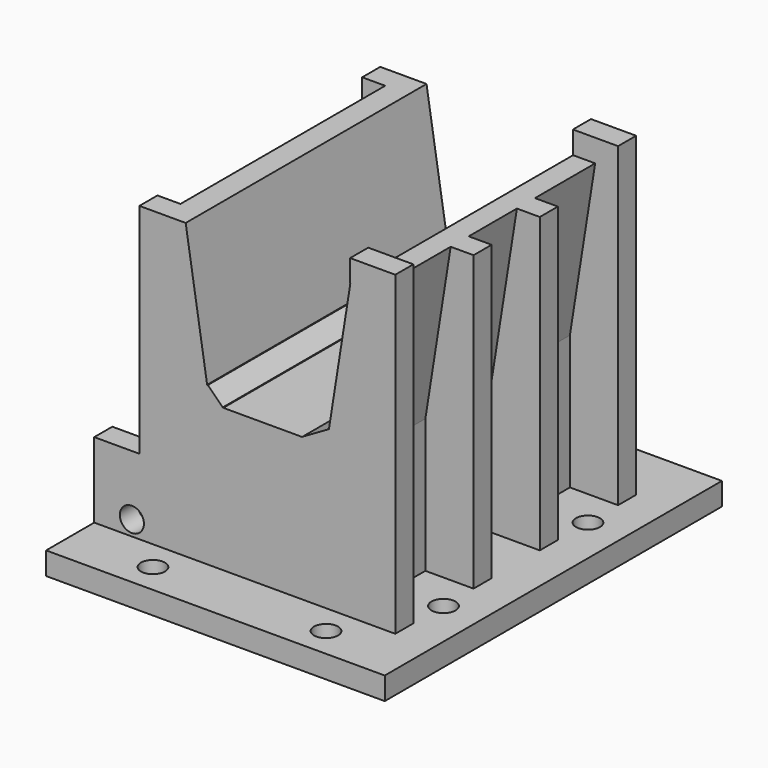
from build123d import *

# Parameters (mm, degrees)
CYLINDER007_R          = 1.6
CYLINDER007_DEPTH      = 10
CYLINDER006_R          = 1.6
CYLINDER006_DEPTH      = 10
CYLINDER005_R          = 1.6
CYLINDER005_DEPTH      = 10
CYLINDER004_R          = 1.6
CYLINDER004_DEPTH      = 10
CYLINDER_R             = 1.6
CYLINDER_DEPTH         = 50
CYLINDER_ROLL_ANGLE    = 90
BOX024_W               = 6
BOX024_H               = 3
BOX024_DEPTH           = 10
BOX023_W               = 6
BOX023_H               = 3
BOX023_DEPTH           = 10
BOX021_W               = 6
BOX021_H               = 3
BOX021_DEPTH           = 3
BOX022_W               = 13
BOX022_H               = 34
BOX022_DEPTH           = 3
CYLINDER003_R          = 1.6
CYLINDER003_DEPTH      = 10
CYLINDER002_R          = 1.6
CYLINDER002_DEPTH      = 10
BOX019_W               = 45
BOX019_H               = 56
BOX019_DEPTH           = 3
BOX018_W               = 10
BOX018_H               = 10
BOX018_DEPTH           = 23
BOX018_PITCH_ANGLE     = 9
BOX013_W               = 8.6
BOX013_H               = 10
BOX013_DEPTH           = 17.8
BOX017_W               = 10
BOX017_H               = 8
BOX017_DEPTH           = 23
BOX017_PITCH_ANGLE     = 9
BOX012_W               = 8.6
BOX012_H               = 8
BOX012_DEPTH           = 17.8
BOX016_W               = 10
BOX016_H               = 10
BOX016_DEPTH           = 23
BOX016_PITCH_ANGLE     = 9
BOX011_W               = 8.6
BOX011_H               = 10
BOX011_DEPTH           = 17.8
BOX008_W               = 10
BOX008_H               = 34
BOX008_DEPTH           = 23
BOX008_PITCH_ANGLE     = -9
BOX007_W               = 8.6
BOX007_H               = 34
BOX007_DEPTH           = 17.8
BOX006_W               = 4
BOX006_H               = 40
BOX006_DEPTH           = 3
BOX006_PLACEMENT_ANGLE = 30
BOX004_W               = 10
BOX004_H               = 40
BOX004_DEPTH           = 19
BOX004_PITCH_ANGLE     = 9
BOX005_W               = 2.8
BOX005_H               = 40
BOX005_DEPTH           = 2.8
BOX005_PITCH_ANGLE     = 45
BOX003_W               = 7
BOX003_H               = 40
BOX003_DEPTH           = 19
BOX003_PITCH_ANGLE     = -9
BOX001_W               = 10.5
BOX001_H               = 40
BOX001_DEPTH           = 20
BOX_W                  = 34
BOX_H                  = 40
BOX_DEPTH              = 42
BOX020_W               = 6
BOX020_H               = 3
BOX020_DEPTH           = 3


with BuildPart() as cylinder007:
    # Cylinder007 → Cylinder007 (new body)
    with BuildSketch(Plane(origin=(28, 44, 0), x_dir=(1, 0, 0), z_dir=(0, 0, 1))):
        Circle(CYLINDER007_R)
    extrude(amount=CYLINDER007_DEPTH)


with BuildPart() as cylinder006:
    # Cylinder006 → Cylinder006 (new body)
    with BuildSketch(Plane(origin=(5, 44, 0), x_dir=(1, 0, 0), z_dir=(0, 0, 1))):
        Circle(CYLINDER006_R)
    extrude(amount=CYLINDER006_DEPTH)


with BuildPart() as cylinder005:
    # Cylinder005 → Cylinder005 (new body)
    with BuildSketch(Plane(origin=(28, -4, 0), x_dir=(1, 0, 0), z_dir=(0, 0, 1))):
        Circle(CYLINDER005_R)
    extrude(amount=CYLINDER005_DEPTH)


with BuildPart() as cylinder004:
    # Cylinder004 → Cylinder004 (new body)
    with BuildSketch(Plane(origin=(5, -4, 0), x_dir=(1, 0, 0), z_dir=(0, 0, 1))):
        Circle(CYLINDER004_R)
    extrude(amount=CYLINDER004_DEPTH)


with BuildPart() as cylinder:
    # Cylinder → Cylinder (new body)
    with BuildSketch(Plane.XY):
        Circle(CYLINDER_R)
    extrude(amount=CYLINDER_DEPTH)


with BuildPart() as cylinder_1:
    # Cylinder roll: moved
    add(cylinder.part.rotate(Axis((0, 0, 0), (1, 0, 0)), CYLINDER_ROLL_ANGLE))


with BuildPart() as cylinder_2:
    # Cylinder placement: moved
    add(cylinder_1.part.moved(Location((-1, 45, 5))))


with BuildPart() as cube024:
    # Box024 → Box024 (new body)
    with BuildSketch(Plane(origin=(-6, 37, 3), x_dir=(1, 0, 0), z_dir=(0, 0, 1))):
        with Locations((3, 1.5)):
            Rectangle(BOX024_W, BOX024_H)
    extrude(amount=BOX024_DEPTH)


with BuildPart() as cube023:
    # Box023 → Box023 (new body)
    with BuildSketch(Plane(origin=(-6, 0, 3), x_dir=(1, 0, 0), z_dir=(0, 0, 1))):
        with Locations((3, 1.5)):
            Rectangle(BOX023_W, BOX023_H)
    extrude(amount=BOX023_DEPTH)


with BuildPart() as cube021:
    # Box021 → Box021 (new body)
    with BuildSketch(Plane(origin=(28, 37, 42), x_dir=(1, 0, 0), z_dir=(0, 0, 1))):
        with Locations((3, 1.5)):
            Rectangle(BOX021_W, BOX021_H)
    extrude(amount=BOX021_DEPTH)


with BuildPart() as cube022:
    # Box022 → Box022 (new body)
    with BuildSketch(Plane(origin=(-6.6, 3, 0), x_dir=(1, 0, 0), z_dir=(0, 0, 1))):
        with Locations((6.5, 17)):
            Rectangle(BOX022_W, BOX022_H)
    extrude(amount=BOX022_DEPTH)


with BuildPart() as cylinder003:
    # Cylinder003 → Cylinder003 (new body)
    with BuildSketch(Plane(origin=(34, 32, 0), x_dir=(1, 0, 0), z_dir=(0, 0, 1))):
        Circle(CYLINDER003_R)
    extrude(amount=CYLINDER003_DEPTH)


with BuildPart() as cylinder002:
    # Cylinder002 → Cylinder002 (new body)
    with BuildSketch(Plane(origin=(34, 8, 0), x_dir=(1, 0, 0), z_dir=(0, 0, 1))):
        Circle(CYLINDER002_R)
    extrude(amount=CYLINDER002_DEPTH)


with BuildPart() as cube019:
    # Box019 → Box019 (new body)
    with BuildSketch(Plane(origin=(-6, -8, 0), x_dir=(1, 0, 0), z_dir=(0, 0, 1))):
        with Locations((22.5, 28)):
            Rectangle(BOX019_W, BOX019_H)
    extrude(amount=BOX019_DEPTH)


with BuildPart() as cube018:
    # Box018 → Box018 (new body)
    with BuildSketch(Plane.XY):
        with Locations((5, 5)):
            Rectangle(BOX018_W, BOX018_H)
    extrude(amount=BOX018_DEPTH)


with BuildPart() as cube018_1:
    # Box018 pitch: moved
    add(cube018.part.rotate(Axis((0, 0, 0), (0, 1, 0)), BOX018_PITCH_ANGLE))


with BuildPart() as cube018_2:
    # Box018 placement: moved
    add(cube018_1.part.moved(Location((27.6, 3, 20.8))))


with BuildPart() as cube013:
    # Box013 → Box013 (new body)
    with BuildSketch(Plane(origin=(27.6, 3, 3), x_dir=(1, 0, 0), z_dir=(0, 0, 1))):
        with Locations((4.3, 5)):
            Rectangle(BOX013_W, BOX013_H)
    extrude(amount=BOX013_DEPTH)


with BuildPart() as cube017:
    # Box017 → Box017 (new body)
    with BuildSketch(Plane.XY):
        with Locations((5, 4)):
            Rectangle(BOX017_W, BOX017_H)
    extrude(amount=BOX017_DEPTH)


with BuildPart() as cube017_1:
    # Box017 pitch: moved
    add(cube017.part.rotate(Axis((0, 0, 0), (0, 1, 0)), BOX017_PITCH_ANGLE))


with BuildPart() as cube017_2:
    # Box017 placement: moved
    add(cube017_1.part.moved(Location((27.6, 16, 20.8))))


with BuildPart() as cube012:
    # Box012 → Box012 (new body)
    with BuildSketch(Plane(origin=(27.6, 16, 3), x_dir=(1, 0, 0), z_dir=(0, 0, 1))):
        with Locations((4.3, 4)):
            Rectangle(BOX012_W, BOX012_H)
    extrude(amount=BOX012_DEPTH)


with BuildPart() as cube016:
    # Box016 → Box016 (new body)
    with BuildSketch(Plane.XY):
        with Locations((5, 5)):
            Rectangle(BOX016_W, BOX016_H)
    extrude(amount=BOX016_DEPTH)


with BuildPart() as cube016_1:
    # Box016 pitch: moved
    add(cube016.part.rotate(Axis((0, 0, 0), (0, 1, 0)), BOX016_PITCH_ANGLE))


with BuildPart() as cube016_2:
    # Box016 placement: moved
    add(cube016_1.part.moved(Location((27.6, 27, 20.8))))


with BuildPart() as cube011:
    # Box011 → Box011 (new body)
    with BuildSketch(Plane(origin=(27.6, 27, 3), x_dir=(1, 0, 0), z_dir=(0, 0, 1))):
        with Locations((4.3, 5)):
            Rectangle(BOX011_W, BOX011_H)
    extrude(amount=BOX011_DEPTH)


with BuildPart() as cube008:
    # Box008 → Box008 (new body)
    with BuildSketch(Plane.XY):
        with Locations((5, 17)):
            Rectangle(BOX008_W, BOX008_H)
    extrude(amount=BOX008_DEPTH)


with BuildPart() as cube008_1:
    # Box008 pitch: moved
    add(cube008.part.rotate(Axis((0, 0, 0), (0, 1, 0)), BOX008_PITCH_ANGLE))


with BuildPart() as cube008_2:
    # Box008 placement: moved
    add(cube008_1.part.moved(Location((-3.3, 3, 18.2))))


with BuildPart() as cube007:
    # Box007 → Box007 (new body)
    with BuildSketch(Plane(origin=(-2.19, 3, 3), x_dir=(1, 0, 0), z_dir=(0, 0, 1))):
        with Locations((4.3, 17)):
            Rectangle(BOX007_W, BOX007_H)
    extrude(amount=BOX007_DEPTH)


with BuildPart() as cube006:
    # Box006 → Box006 (new body)
    with BuildSketch(Plane.XY):
        with Locations((2, 20)):
            Rectangle(BOX006_W, BOX006_H)
    extrude(amount=BOX006_DEPTH)


with BuildPart() as cube006_1:
    # Box006 placement: moved
    add(cube006.part.moved(Location((21.6, 0, 22))).rotate(Axis((21.6, 0, 22), (0, -1, 0)), BOX006_PLACEMENT_ANGLE))


with BuildPart() as cube004:
    # Box004 → Box004 (new body)
    with BuildSketch(Plane.XY):
        with Locations((5, 20)):
            Rectangle(BOX004_W, BOX004_H)
    extrude(amount=BOX004_DEPTH)


with BuildPart() as cube004_1:
    # Box004 pitch: moved
    add(cube004.part.rotate(Axis((0, 0, 0), (0, 1, 0)), BOX004_PITCH_ANGLE))


with BuildPart() as cube004_2:
    # Box004 placement: moved
    add(cube004_1.part.moved(Location((15.3, 0, 25.6))))


with BuildPart() as cube005:
    # Box005 → Box005 (new body)
    with BuildSketch(Plane.XY):
        with Locations((1.4, 20)):
            Rectangle(BOX005_W, BOX005_H)
    extrude(amount=BOX005_DEPTH)


with BuildPart() as cube005_1:
    # Box005 pitch: moved
    add(cube005.part.rotate(Axis((0, 0, 0), (0, 1, 0)), BOX005_PITCH_ANGLE))


with BuildPart() as cube005_2:
    # Box005 placement: moved
    add(cube005_1.part.moved(Location((9.1, 0, 24))))


with BuildPart() as cube003:
    # Box003 → Box003 (new body)
    with BuildSketch(Plane.XY):
        with Locations((3.5, 20)):
            Rectangle(BOX003_W, BOX003_H)
    extrude(amount=BOX003_DEPTH)


with BuildPart() as cube003_1:
    # Box003 pitch: moved
    add(cube003.part.rotate(Axis((0, 0, 0), (0, 1, 0)), BOX003_PITCH_ANGLE))


with BuildPart() as cube003_2:
    # Box003 placement: moved
    add(cube003_1.part.moved(Location((9, 0, 24))))


with BuildPart() as cube001:
    # Box001 → Box001 (new body)
    with BuildSketch(Plane(origin=(11.15, 0, 22), x_dir=(1, 0, 0), z_dir=(0, 0, 1))):
        with Locations((5.25, 20)):
            Rectangle(BOX001_W, BOX001_H)
    extrude(amount=BOX001_DEPTH)


with BuildPart() as cut021:
    # Box → Box (new body)
    with BuildSketch(Plane.XY):
        with Locations((17, 20)):
            Rectangle(BOX_W, BOX_H)
    extrude(amount=BOX_DEPTH)

    # Cut: cut Cube001
    add(cube001.part, mode=Mode.SUBTRACT)

    # Cut001: cut Cube003
    add(cube003_2.part, mode=Mode.SUBTRACT)

    # Cut002: cut Cube005
    add(cube005_2.part, mode=Mode.SUBTRACT)

    # Cut003: cut Cube004
    add(cube004_2.part, mode=Mode.SUBTRACT)

    # Cut004: cut Cube006
    add(cube006_1.part, mode=Mode.SUBTRACT)

    # Cut005: cut Cube007
    add(cube007.part, mode=Mode.SUBTRACT)

    # Cut006: cut Cube008
    add(cube008_2.part, mode=Mode.SUBTRACT)

    # Cut011: cut Cube011
    add(cube011.part, mode=Mode.SUBTRACT)

    # Cut012: cut Cube016
    add(cube016_2.part, mode=Mode.SUBTRACT)

    # Cut013: cut Cube012
    add(cube012.part, mode=Mode.SUBTRACT)

    # Cut014: cut Cube017
    add(cube017_2.part, mode=Mode.SUBTRACT)

    # Cut015: cut Cube013
    add(cube013.part, mode=Mode.SUBTRACT)

    # Cut016: cut Cube018
    add(cube018_2.part, mode=Mode.SUBTRACT)

    # Fusion: union Cube019
    add(cube019.part)

    # Cut019: cut Cylinder002
    add(cylinder002.part, mode=Mode.SUBTRACT)

    # Cut020: cut Cylinder003
    add(cylinder003.part, mode=Mode.SUBTRACT)

    # Cut021: cut Cube022
    add(cube022.part, mode=Mode.SUBTRACT)


with BuildPart() as cut026:
    # Box020 → Box020 (new body)
    with BuildSketch(Plane(origin=(28, 0, 42), x_dir=(1, 0, 0), z_dir=(0, 0, 1))):
        with Locations((3, 1.5)):
            Rectangle(BOX020_W, BOX020_H)
    extrude(amount=BOX020_DEPTH)

    # Fusion001: union Cut021
    add(cut021.part)

    # Fusion002: union Cube021
    add(cube021.part)

    # Fusion003: union Cube023
    add(cube023.part)

    # Fusion004: union Cube024
    add(cube024.part)

    # Cut022: cut Cylinder
    add(cylinder_2.part, mode=Mode.SUBTRACT)

    # Cut023: cut Cylinder004
    add(cylinder004.part, mode=Mode.SUBTRACT)

    # Cut024: cut Cylinder005
    add(cylinder005.part, mode=Mode.SUBTRACT)

    # Cut025: cut Cylinder006
    add(cylinder006.part, mode=Mode.SUBTRACT)

    # Cut026: cut Cylinder007
    add(cylinder007.part, mode=Mode.SUBTRACT)


solid = cut026.part
